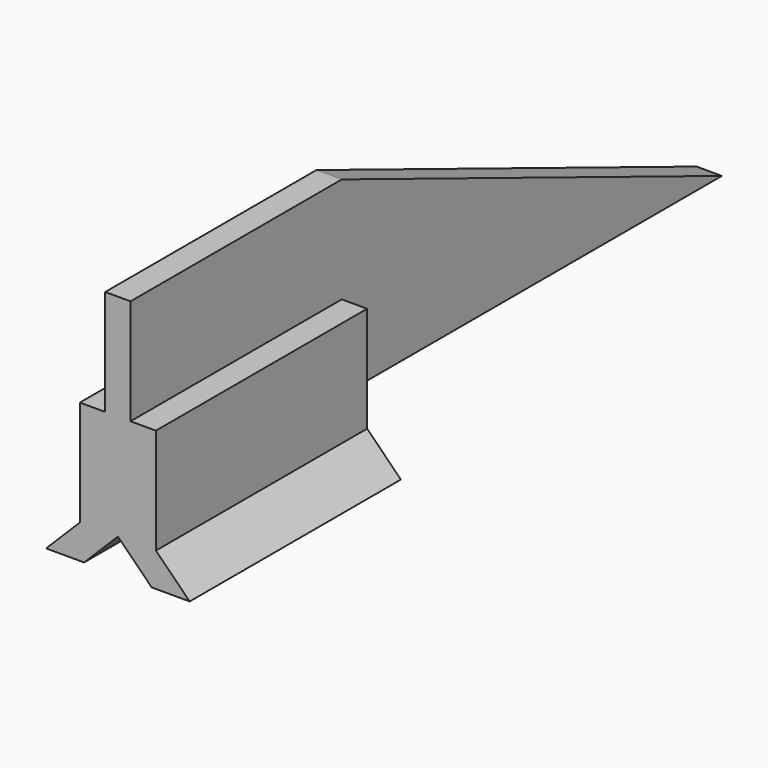
from build123d import *

# Parameters (mm, degrees)
PAD_DEPTH         = 0.6
PAD001_DEPTH      = 12.5
SKETCH002_W       = 30
SKETCH002_H       = 1
POCKET_DEPTH      = 3.401
POCKET_DEPTH_BACK = 3.401


with BuildPart() as part:
    # Sketch → Pad (new body, symmetric)
    with BuildSketch(Plane.YZ):
        Polygon((0, 0), (-12.5, 0), (-12.5, 10), (0, 10), (25, 0), align=None)
    extrude(amount=PAD_DEPTH, both=True)

    # Sketch001 → Pad001 (join)
    with BuildSketch(Plane.XZ):
        Polygon((1.8, 0), (3.4, -1.6), (1.6, -1.6), (0, 0), (-1.6, -1.6), (-3.4, -1.6), (-1.8, 0), (-1.8, 5), (1.8, 5), align=None)
    extrude(amount=PAD001_DEPTH)

    # Sketch002 → Pocket (cut, two sides)
    with BuildSketch(Plane.YZ) as pocket_sk:
        with Locations((15, 0.5)):
            Rectangle(SKETCH002_W, SKETCH002_H)
    extrude(amount=-POCKET_DEPTH, mode=Mode.SUBTRACT)
    extrude(pocket_sk.sketch, amount=POCKET_DEPTH_BACK, mode=Mode.SUBTRACT)


solid = part.part
